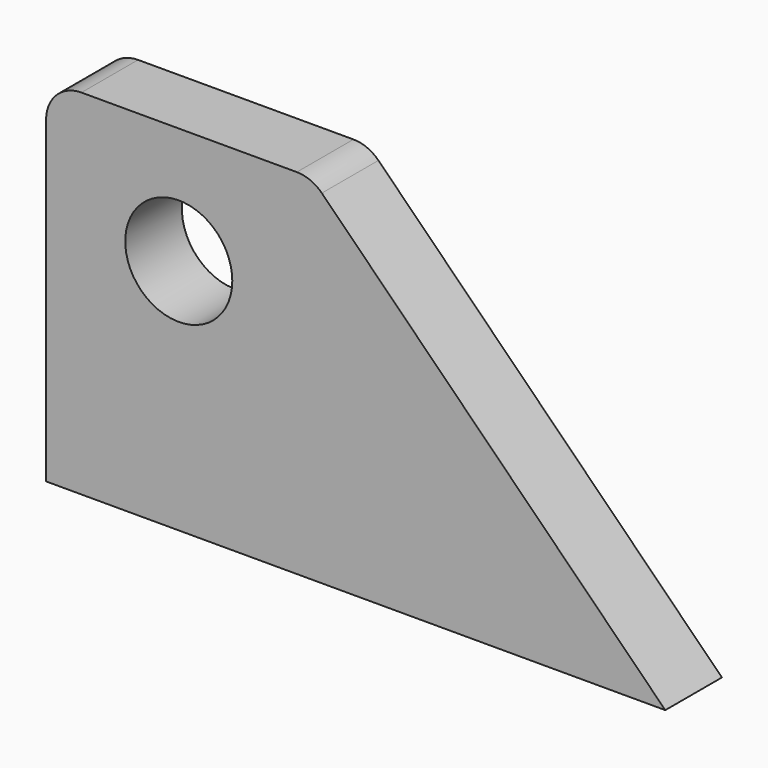
from build123d import *

# Parameters (mm, degrees)
F0_R     = 15.125
F1_DEPTH = 20
F2_R     = 10
F3_R     = 10


with BuildPart() as f1:
    # F0 (on Front) → F1 (new body)
    with BuildSketch(Plane.XZ):
        Polygon((0, 100), (0, 0), (150, 0), (175, 0), (75, 100), align=None)
        with Locations((37.5, 67)):
            Circle(F0_R, mode=Mode.SUBTRACT)
        Polygon((0, 100), (0, 0), (150, 0), (175, 0), (75, 100), align=None)
        with Locations((37.5, 67)):
            Circle(F0_R, mode=Mode.SUBTRACT)
    extrude(amount=F1_DEPTH)

    # F2
    f2_edges = [f1.edges().sort_by_distance(p)[0] for p in [
        (0, -10, 100),
    ]]
    fillet(f2_edges, radius=F2_R)

    # F3
    f3_edges = [f1.edges().sort_by_distance(p)[0] for p in [
        (75, -10, 100),
    ]]
    fillet(f3_edges, radius=F3_R)


solid = f1.part
